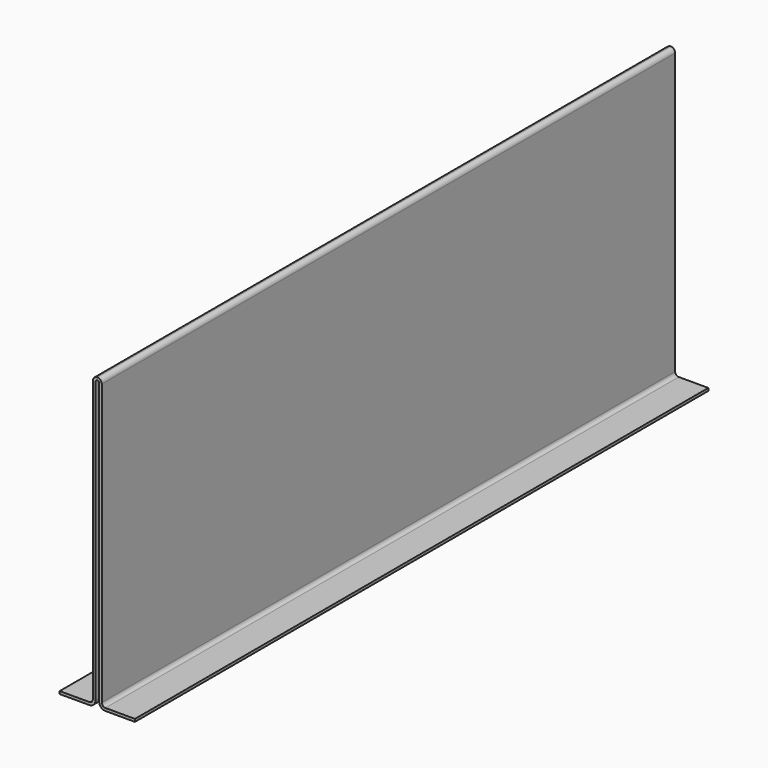
from build123d import *

# Parameters (mm, degrees)
F1_DEPTH = 200


with BuildPart() as f1:
    # F0 (on Front) → F1 (new body, symmetric)
    with BuildSketch(Plane.XZ):
        with BuildLine():
            ThreePointArc((0, 1), (0.707107, 0.707107), (1, 0))
            Line((1, 0), (1, -156.5))
            ThreePointArc((1, -156.5), (2.025126, -158.974874), (4.5, -160))
            Line((4.5, -160), (21, -160))
            Line((21, -160), (21, -158.5))
            Line((21, -158.5), (4.5, -158.5))
            ThreePointArc((4.5, -158.5), (3.085786, -157.914214), (2.5, -156.5))
            Line((2.5, -156.5), (2.5, 0))
            ThreePointArc((2.5, 0), (1.767767, 1.767767), (0, 2.5))
            ThreePointArc((0, 2.5), (-1.767767, 1.767767), (-2.5, 0))
            Line((-2.5, 0), (-2.5, -156.5))
            ThreePointArc((-2.5, -156.5), (-3.085786, -157.914214), (-4.5, -158.5))
            Line((-4.5, -158.5), (-21, -158.5))
            Line((-21, -158.5), (-21, -160))
            Line((-21, -160), (-4.5, -160))
            ThreePointArc((-4.5, -160), (-2.025126, -158.974874), (-1, -156.5))
            Line((-1, -156.5), (-1, 0))
            ThreePointArc((-1, 0), (-0.707107, 0.707107), (0, 1))
        make_face()
    extrude(amount=F1_DEPTH, both=True)


solid = f1.part
